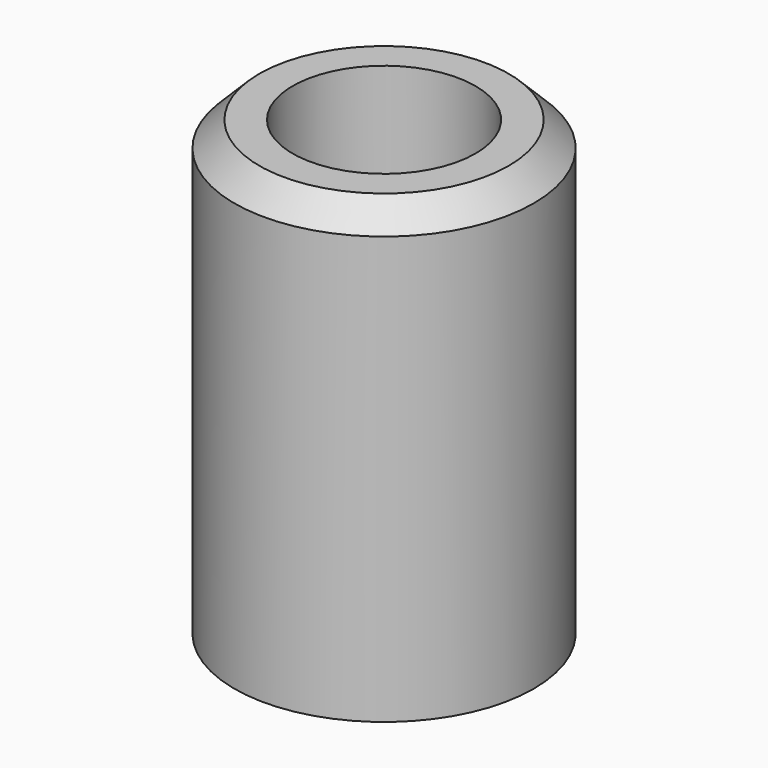
from build123d import *

# Parameters (mm, degrees)
F0_R     = 9
F1_DEPTH = 27.2
F2_R     = 5.5
F3_DEPTH = 23.7
F4_SIZE  = 1.5


with BuildPart() as f1:
    # F0 (on Top) → F1 (new body)
    with BuildSketch(Plane.XY):
        Circle(F0_R)
    extrude(amount=-F1_DEPTH)

    # F2 (on face) → F3 (cut)
    with BuildSketch(Plane.XY):
        Circle(F2_R)
    extrude(amount=-F3_DEPTH, mode=Mode.SUBTRACT)

    # F4
    f4_edges = [f1.edges().sort_by_distance(p)[0] for p in [
        (-9, 0, 0),
    ]]
    chamfer(f4_edges, length=F4_SIZE)


solid = f1.part
